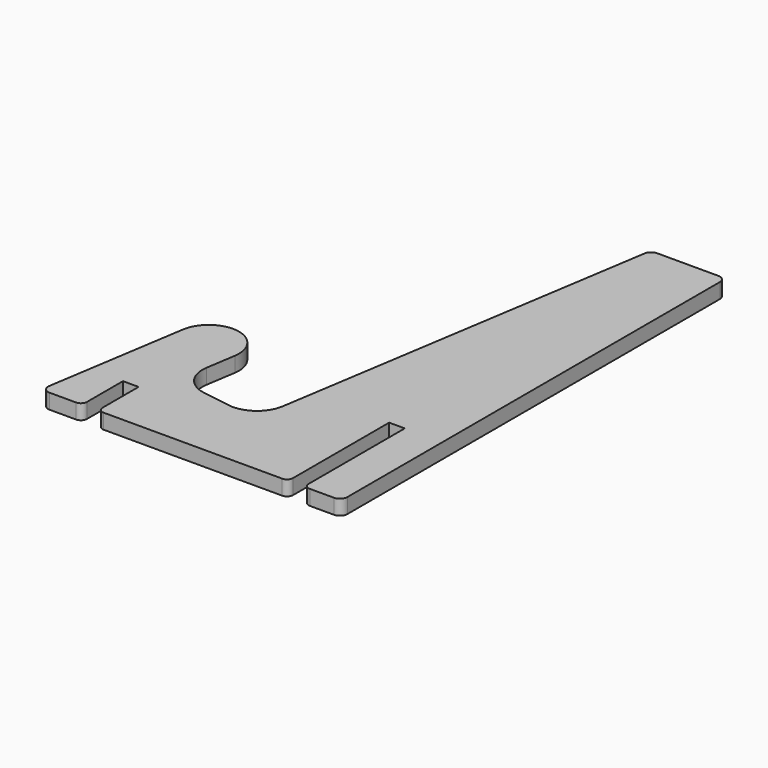
from build123d import *

# Parameters (mm, degrees)
F1_DEPTH  = 3.175
F2_R      = 1.27
F1_FACE_W = 3.302
F1_FACE_H = 3.175
F3_DEPTH  = 1.143


with BuildPart() as f1:
    # F0 (on Top) → F1 (new body)
    with BuildSketch(Plane.XY):
        with BuildLine():
            Line((23.828722, -50.8), (30.178722, -50.8))
            ThreePointArc((30.178722, -50.8), (31.301254, -50.335032), (31.766222, -49.2125))
            Line((31.766222, -49.2125), (31.766222, 49.2125))
            ThreePointArc((31.766222, 49.2125), (31.301254, 50.335032), (30.178722, 50.8))
            Line((30.178722, 50.8), (17.241719, 50.8))
            ThreePointArc((17.241719, 50.8), (16.209511, 50.41861), (15.673269, 49.457696))
            Line((15.673269, 49.457696), (3.169756, -30.523921))
            Line((3.169756, -30.523921), (2.188974, -36.797721))
            Line((2.188974, -36.797721), (-4.084826, -35.816939))
            Line((-4.084826, -35.816939), (-9.982198, -34.895004))
            ThreePointArc((-9.982198, -34.895004), (-14.13118, -32.363933), (-15.275216, -27.640422))
            Line((-15.275216, -27.640422), (-14.294434, -21.366622))
            ThreePointArc((-14.294434, -21.366622), (-19.610562, -14.114872), (-26.862312, -19.431))
            Line((-26.862312, -19.431), (-31.479717, -48.967304))
            ThreePointArc((-31.479717, -48.967304), (-31.117378, -50.244708), (-29.911267, -50.8))
            Line((-29.911267, -50.8), (-23.053267, -50.8))
            Line((-23.053267, -50.8), (-23.053267, -41.148))
            Line((-23.053267, -41.148), (-19.751267, -41.148))
            Line((-19.751267, -41.148), (-19.751267, -50.8))
            Line((-19.751267, -50.8), (0, -50.8))
            Line((0, -50.8), (20.526722, -50.8))
            Line((20.526722, -50.8), (20.526722, -24.13))
            Line((20.526722, -24.13), (23.828722, -24.13))
            Line((23.828722, -24.13), (23.828722, -50.8))
        make_face()
        with BuildLine():
            Line((2.188974, -36.797721), (3.169756, -30.523921))
            ThreePointArc((3.169756, -30.523921), (0.638685, -34.672903), (-4.084826, -35.816939))
            Line((-4.084826, -35.816939), (2.188974, -36.797721))
        make_face()
    extrude(amount=F1_DEPTH)

    # F2
    f2_edges = [f1.edges().sort_by_distance(p)[0] for p in [
        (23.828722, -50.8, 1.5875),
        (-19.751267, -50.8, 1.5875),
        (20.526722, -50.8, 1.5875),
        (-23.053267, -50.8, 1.5875),
    ]]
    fillet(f2_edges, radius=F2_R)

    # F1_face (on face) → F3 (cut)
    with BuildSketch(Plane(origin=(-21.402267, -41.148, 1.5875), x_dir=(1, 0, 0), z_dir=(0, -1, 0))):
        Rectangle(F1_FACE_W, F1_FACE_H)
    extrude(amount=-F3_DEPTH, mode=Mode.SUBTRACT)


solid = f1.part
